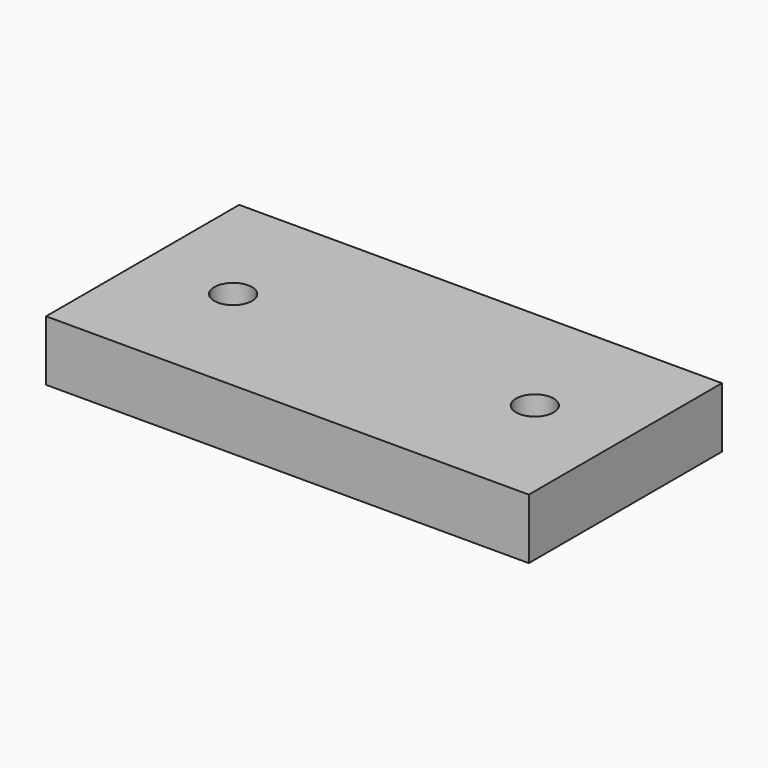
from build123d import *

# Parameters (mm, degrees)
F0_W     = 50.8
F0_H     = 25.4
F1_DEPTH = 6.35
F2_R     = 1.984375
F3_DEPTH = 6.351


with BuildPart() as f1:
    # F0 (on Top) → F1 (new body)
    with BuildSketch(Plane.XY):
        Rectangle(F0_W, F0_H)
    extrude(amount=-F1_DEPTH)

    # F2 (on face) → F3 (cut, through all)
    with BuildSketch(Plane.XY):
        with Locations((-15.875, 0)):
            Circle(F2_R)
        with Locations((15.875, 0)):
            Circle(F2_R)
    extrude(amount=-F3_DEPTH, mode=Mode.SUBTRACT)


solid = f1.part
